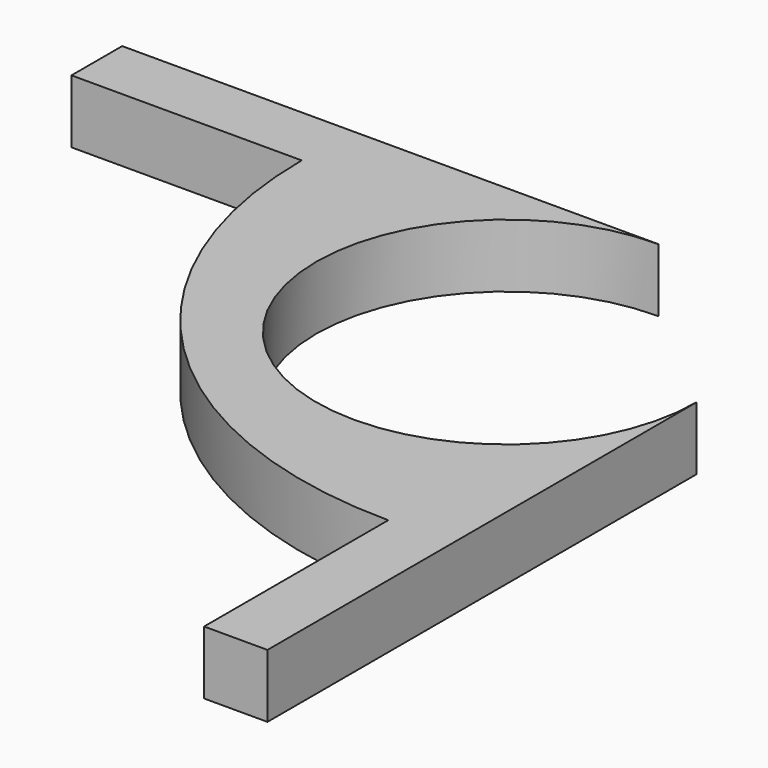
from build123d import *

# Parameters (mm, degrees)
PAD_DEPTH = 10


with BuildPart() as part:
    # Sketch → Pad (new body)
    with BuildSketch(Plane.XY):
        with BuildLine():
            Line((-10, -114.602216), (0, -114.602216))
            Line((0, -30), (0, -114.602216))
            ThreePointArc((-30, 0), (-51.213203, -51.213203), (0, -30))
            Line((-30, 0), (-114.602216, 0))
            Line((-114.602216, 0), (-114.602216, -10))
            Line((-114.602216, -10), (-78.284271, -10))
            ThreePointArc((-78.284271, -10), (-58.284271, -58.284271), (-10, -78.284271))
            Line((-10, -78.284271), (-10, -114.602216))
        make_face()
    extrude(amount=PAD_DEPTH)


solid = part.part
